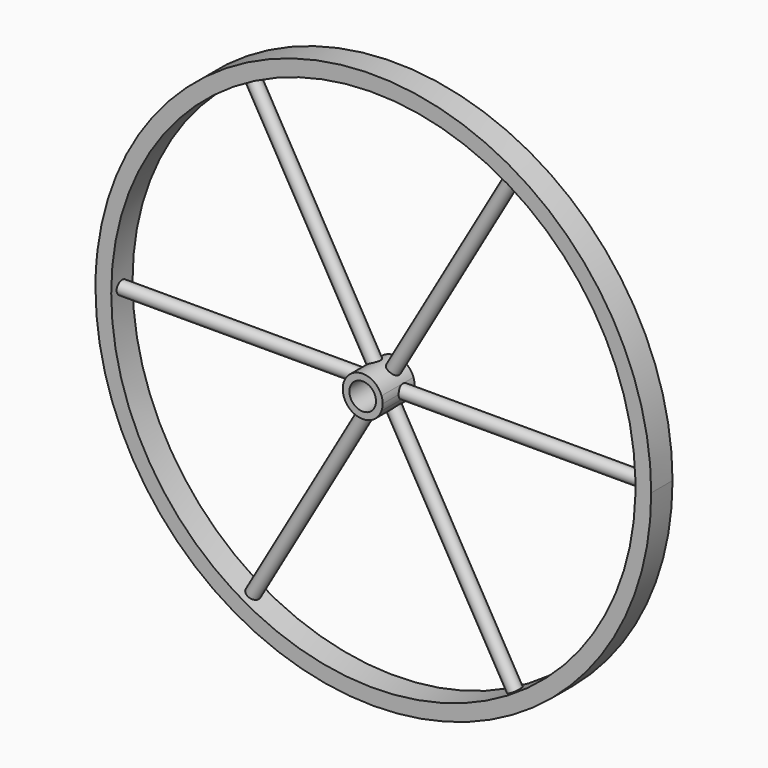
from build123d import *

# Parameters (mm, degrees)
F0_R     = 25.4
F1_DEPTH = 76.2
F2_DEPTH = 50.8
F7_COUNT = 6


with BuildPart() as f1:
    # F0 (on Front) → F1 (new body)
    with BuildSketch(Plane.XZ):
        with BuildLine():
            ThreePointArc((35.921024, -12.7), (37.551305, -6.442785), (38.1, 0))
            ThreePointArc((38.1, 0), (37.551305, 6.442785), (35.921024, 12.7))
            ThreePointArc((35.921024, 12.7), (-38.1, 0), (35.921024, -12.7))
        make_face()
        Circle(F0_R, mode=Mode.SUBTRACT)
    extrude(amount=F1_DEPTH)


with BuildPart() as f2:
    # F0 (on Front) → F2 (new body)
    with BuildSketch(Plane.XZ):
        with BuildLine():
            ThreePointArc((35.921024, 12.7), (37.551305, 6.442785), (38.1, 0))
            ThreePointArc((38.1, 0), (37.551305, -6.442785), (35.921024, -12.7))
            Line((35.921024, -12.7), (269.05, -12.7))
            Line((269.05, -12.7), (499.838684, -12.7))
            ThreePointArc((499.838684, -12.7), (499.959669, -6.350512), (500, 0))
            ThreePointArc((500, 0), (499.959669, 6.350512), (499.838684, 12.7))
            Line((499.838684, 12.7), (296.239495, 12.7))
            Line((296.239495, 12.7), (35.921024, 12.7))
        make_face()
        with BuildLine():
            ThreePointArc((-530, 0), (0, -530), (530, 0))
            ThreePointArc((530, 0), (32.341857, 529.012291), (-526.052846, 64.563169))
            ThreePointArc((-526.052846, 64.563169), (-529.012291, 32.341857), (-530, 0))
        make_face()
        with BuildLine():
            ThreePointArc((499.838684, -12.7), (-500, 0), (499.838684, 12.7))
            ThreePointArc((499.838684, 12.7), (499.959669, 6.350512), (500, 0))
            ThreePointArc((500, 0), (499.959669, -6.350512), (499.838684, -12.7))
        make_face(mode=Mode.SUBTRACT)
    extrude(amount=F2_DEPTH)


with BuildPart() as f6:
    # F5 (on offset) → F6 (revolve)
    with BuildSketch(Plane.XZ.offset(25.4)):
        Polygon((30.907358, 0), (514.31191, 0), (514.31191, 12.7), (503.66986, 12.7), (30.907358, 12.7), align=None)
    revolve(axis=Axis((483.526826, -25.4, 0), (1, 0, 0)))


with BuildPart() as f7_1:
    # F7: instance of F6
    add(f6.part.rotate(Axis((0, -45.509126, 0), (0, -1, 0)), 1 * 360 / F7_COUNT))


with BuildPart() as f7_2:
    # F7: instance of F6
    add(f6.part.rotate(Axis((0, -45.509126, 0), (0, -1, 0)), 2 * 360 / F7_COUNT))


with BuildPart() as f7_3:
    # F7: instance of F6
    add(f6.part.rotate(Axis((0, -45.509126, 0), (0, -1, 0)), 3 * 360 / F7_COUNT))


with BuildPart() as f7_4:
    # F7: instance of F6
    add(f6.part.rotate(Axis((0, -45.509126, 0), (0, -1, 0)), 4 * 360 / F7_COUNT))


with BuildPart() as f7_5:
    # F7: instance of F6
    add(f6.part.rotate(Axis((0, -45.509126, 0), (0, -1, 0)), 5 * 360 / F7_COUNT))


solid = Compound([f1.part, f2.part, f6.part, f7_1.part, f7_2.part, f7_3.part, f7_4.part, f7_5.part])
